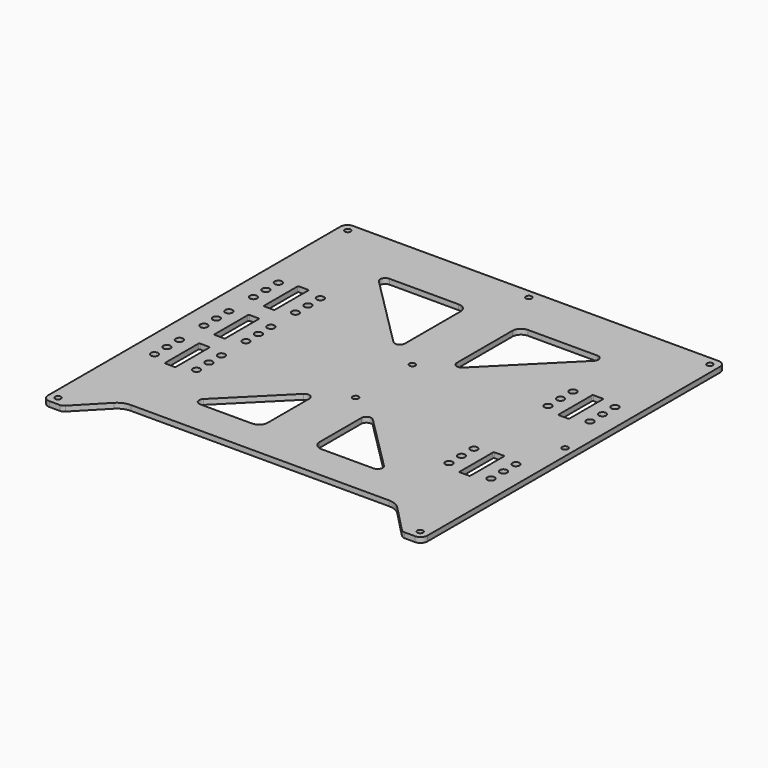
from build123d import *

# Parameters (mm, degrees)
SKETCH009_R   = 1.7
SKETCH009_R_2 = 2.1
PAD_DEPTH     = 3


with BuildPart() as part:
    # Sketch009 → Pad (new body)
    with BuildSketch(Plane.XY):
        with BuildLine():
            Line((-215, 219), (-4, 219))
            ThreePointArc((0, 215), (-1.171573, 217.828427), (-4, 219))
            Line((0, 215), (0, 4))
            ThreePointArc((-4, 0), (-1.171573, 1.171573), (0, 4))
            Line((-10, 0), (-4, 0))
            ThreePointArc((-12.360781, 1), (-11.281921, 0.260308), (-10, 0))
            Line((-27.817047, 16.957383), (-12.360781, 1))
            ThreePointArc((-27.817047, 16.957383), (-31.099605, 19.207981), (-35, 20))
            Line((-184, 20), (-35, 20))
            ThreePointArc((-184, 20), (-187.900395, 19.207981), (-191.182953, 16.957383))
            Line((-206.639219, 1), (-191.182953, 16.957383))
            ThreePointArc((-209, 0), (-207.718079, 0.260308), (-206.639219, 1))
            Line((-215, 0), (-209, 0))
            ThreePointArc((-219, 4), (-217.828427, 1.171573), (-215, 0))
            Line((-219, 215), (-219, 4))
            ThreePointArc((-215, 219), (-217.828427, 217.828427), (-219, 215))
        make_face()
        with Locations((-5, 214)):
            Circle(SKETCH009_R, mode=Mode.SUBTRACT)
        with Locations((-5, 109.5)):
            Circle(SKETCH009_R, mode=Mode.SUBTRACT)
        with Locations((-5, 5)):
            Circle(SKETCH009_R, mode=Mode.SUBTRACT)
        with Locations((-109.5, 214)):
            Circle(SKETCH009_R, mode=Mode.SUBTRACT)
        with Locations((-214, 214)):
            Circle(SKETCH009_R, mode=Mode.SUBTRACT)
        with Locations((-214, 5)):
            Circle(SKETCH009_R, mode=Mode.SUBTRACT)
        with Locations((-109.5, 130)):
            Circle(SKETCH009_R, mode=Mode.SUBTRACT)
        with Locations((-109.5, 89)):
            Circle(SKETCH009_R, mode=Mode.SUBTRACT)
        with Locations((-12.375, 83.3)):
            Circle(SKETCH009_R_2, mode=Mode.SUBTRACT)
        with Locations((-36.625, 83.3)):
            Circle(SKETCH009_R_2, mode=Mode.SUBTRACT)
        with Locations((-12.375, 74.3)):
            Circle(SKETCH009_R_2, mode=Mode.SUBTRACT)
        with Locations((-12.375, 65.3)):
            Circle(SKETCH009_R_2, mode=Mode.SUBTRACT)
        with Locations((-36.625, 74.3)):
            Circle(SKETCH009_R_2, mode=Mode.SUBTRACT)
        with Locations((-36.625, 65.3)):
            Circle(SKETCH009_R_2, mode=Mode.SUBTRACT)
        with Locations((-12.375, 154.7)):
            Circle(SKETCH009_R_2, mode=Mode.SUBTRACT)
        with Locations((-36.625, 154.7)):
            Circle(SKETCH009_R_2, mode=Mode.SUBTRACT)
        with Locations((-12.375, 145.7)):
            Circle(SKETCH009_R_2, mode=Mode.SUBTRACT)
        with Locations((-12.375, 136.7)):
            Circle(SKETCH009_R_2, mode=Mode.SUBTRACT)
        with Locations((-36.625, 145.7)):
            Circle(SKETCH009_R_2, mode=Mode.SUBTRACT)
        with Locations((-36.625, 136.7)):
            Circle(SKETCH009_R_2, mode=Mode.SUBTRACT)
        with Locations((-182.375, 83.3)):
            Circle(SKETCH009_R_2, mode=Mode.SUBTRACT)
        with Locations((-206.625, 83.3)):
            Circle(SKETCH009_R_2, mode=Mode.SUBTRACT)
        with Locations((-182.375, 74.3)):
            Circle(SKETCH009_R_2, mode=Mode.SUBTRACT)
        with Locations((-182.375, 65.3)):
            Circle(SKETCH009_R_2, mode=Mode.SUBTRACT)
        with Locations((-206.625, 74.3)):
            Circle(SKETCH009_R_2, mode=Mode.SUBTRACT)
        with Locations((-206.625, 65.3)):
            Circle(SKETCH009_R_2, mode=Mode.SUBTRACT)
        with Locations((-182.375, 154.7)):
            Circle(SKETCH009_R_2, mode=Mode.SUBTRACT)
        with Locations((-206.625, 154.7)):
            Circle(SKETCH009_R_2, mode=Mode.SUBTRACT)
        with Locations((-182.375, 145.7)):
            Circle(SKETCH009_R_2, mode=Mode.SUBTRACT)
        with Locations((-182.375, 136.7)):
            Circle(SKETCH009_R_2, mode=Mode.SUBTRACT)
        with Locations((-206.625, 145.7)):
            Circle(SKETCH009_R_2, mode=Mode.SUBTRACT)
        with Locations((-206.625, 136.7)):
            Circle(SKETCH009_R_2, mode=Mode.SUBTRACT)
        with Locations((-182.375, 119)):
            Circle(SKETCH009_R_2, mode=Mode.SUBTRACT)
        with Locations((-206.625, 119)):
            Circle(SKETCH009_R_2, mode=Mode.SUBTRACT)
        with Locations((-182.375, 110)):
            Circle(SKETCH009_R_2, mode=Mode.SUBTRACT)
        with Locations((-182.375, 101)):
            Circle(SKETCH009_R_2, mode=Mode.SUBTRACT)
        with Locations((-206.625, 110)):
            Circle(SKETCH009_R_2, mode=Mode.SUBTRACT)
        with Locations((-206.625, 101)):
            Circle(SKETCH009_R_2, mode=Mode.SUBTRACT)
        with BuildLine():
            Line((-27.625, 85.8), (-27.625, 61.8))
            ThreePointArc((-27.625, 61.8), (-27.478553, 61.446447), (-27.125, 61.3))
            Line((-27.125, 61.3), (-21.875, 61.3))
            ThreePointArc((-21.875, 61.3), (-21.521447, 61.446447), (-21.375, 61.8))
            Line((-21.375, 85.8), (-21.375, 61.8))
            ThreePointArc((-21.375, 85.8), (-21.521447, 86.153553), (-21.875, 86.3))
            Line((-27.125, 86.3), (-21.875, 86.3))
            ThreePointArc((-27.125, 86.3), (-27.478553, 86.153553), (-27.625, 85.8))
        make_face(mode=Mode.SUBTRACT)
        with BuildLine():
            Line((-90, 189), (-50, 189))
            ThreePointArc((-47.928932, 184), (-47.294019, 187.191922), (-50, 189))
            Line((-90, 141.928932), (-47.928932, 184))
            ThreePointArc((-95, 144), (-93.191922, 141.294019), (-90, 141.928932))
            Line((-95, 184), (-95, 144))
            ThreePointArc((-90, 189), (-93.535534, 187.535534), (-95, 184))
        make_face(mode=Mode.SUBTRACT)
        with BuildLine():
            Line((-170, 189), (-130, 189))
            ThreePointArc((-125, 184), (-126.464466, 187.535534), (-130, 189))
            Line((-125, 184), (-125, 144))
            ThreePointArc((-130, 141.928932), (-126.808078, 141.294019), (-125, 144))
            Line((-172.071068, 184), (-130, 141.928932))
            ThreePointArc((-170, 189), (-172.705981, 187.191922), (-172.071068, 184))
        make_face(mode=Mode.SUBTRACT)
        with BuildLine():
            Line((-95, 75), (-95, 45))
            ThreePointArc((-95, 45), (-93.535534, 41.464466), (-90, 40))
            Line((-90, 40), (-60, 40))
            ThreePointArc((-60, 40), (-57.294019, 41.808078), (-57.928932, 45))
            Line((-90, 77.071068), (-57.928932, 45))
            ThreePointArc((-90, 77.071068), (-93.191922, 77.705981), (-95, 75))
        make_face(mode=Mode.SUBTRACT)
        with BuildLine():
            Line((-162.071068, 45), (-130, 77.071068))
            ThreePointArc((-125, 75), (-126.808078, 77.705981), (-130, 77.071068))
            Line((-125, 75), (-125, 45))
            ThreePointArc((-130, 40), (-126.464466, 41.464466), (-125, 45))
            Line((-160, 40), (-130, 40))
            ThreePointArc((-162.071068, 45), (-162.705981, 41.808078), (-160, 40))
        make_face(mode=Mode.SUBTRACT)
        with BuildLine():
            Line((-27.625, 157.2), (-27.625, 133.2))
            ThreePointArc((-27.625, 133.2), (-27.478553, 132.846447), (-27.125, 132.7))
            Line((-27.125, 132.7), (-21.875, 132.7))
            ThreePointArc((-21.875, 132.7), (-21.521447, 132.846447), (-21.375, 133.2))
            Line((-21.375, 157.2), (-21.375, 133.2))
            ThreePointArc((-21.375, 157.2), (-21.521447, 157.553553), (-21.875, 157.7))
            Line((-27.125, 157.7), (-21.875, 157.7))
            ThreePointArc((-27.125, 157.7), (-27.478553, 157.553553), (-27.625, 157.2))
        make_face(mode=Mode.SUBTRACT)
        with BuildLine():
            Line((-197.625, 85.8), (-197.625, 61.8))
            ThreePointArc((-197.625, 61.8), (-197.478553, 61.446447), (-197.125, 61.3))
            Line((-197.125, 61.3), (-191.875, 61.3))
            ThreePointArc((-191.875, 61.3), (-191.521447, 61.446447), (-191.375, 61.8))
            Line((-191.375, 85.8), (-191.375, 61.8))
            ThreePointArc((-191.375, 85.8), (-191.521447, 86.153553), (-191.875, 86.3))
            Line((-197.125, 86.3), (-191.875, 86.3))
            ThreePointArc((-197.125, 86.3), (-197.478553, 86.153553), (-197.625, 85.8))
        make_face(mode=Mode.SUBTRACT)
        with BuildLine():
            Line((-197.625, 157.2), (-197.625, 133.2))
            ThreePointArc((-197.625, 133.2), (-197.478553, 132.846447), (-197.125, 132.7))
            Line((-197.125, 132.7), (-191.875, 132.7))
            ThreePointArc((-191.875, 132.7), (-191.521447, 132.846447), (-191.375, 133.2))
            Line((-191.375, 157.2), (-191.375, 133.2))
            ThreePointArc((-191.375, 157.2), (-191.521447, 157.553553), (-191.875, 157.7))
            Line((-197.125, 157.7), (-191.875, 157.7))
            ThreePointArc((-197.125, 157.7), (-197.478553, 157.553553), (-197.625, 157.2))
        make_face(mode=Mode.SUBTRACT)
        with BuildLine():
            Line((-197.625, 121.5), (-197.625, 97.5))
            ThreePointArc((-197.625, 97.5), (-197.478553, 97.146447), (-197.125, 97))
            Line((-197.125, 97), (-191.875, 97))
            ThreePointArc((-191.875, 97), (-191.521447, 97.146447), (-191.375, 97.5))
            Line((-191.375, 121.5), (-191.375, 97.5))
            ThreePointArc((-191.375, 121.5), (-191.521447, 121.853553), (-191.875, 122))
            Line((-197.125, 122), (-191.875, 122))
            ThreePointArc((-197.125, 122), (-197.478553, 121.853553), (-197.625, 121.5))
        make_face(mode=Mode.SUBTRACT)
    extrude(amount=PAD_DEPTH)


solid = part.part
